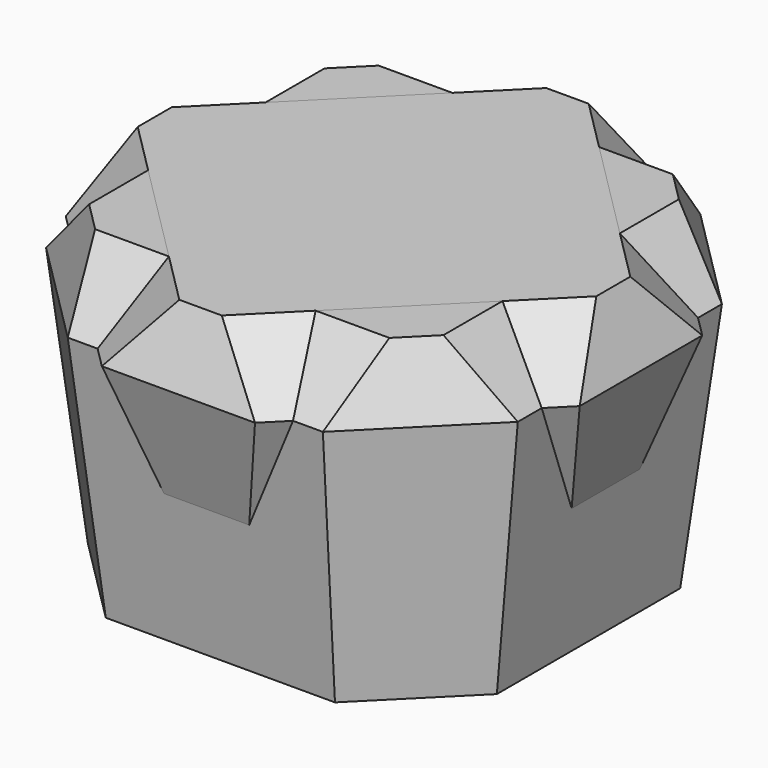
from build123d import *

# Parameters (mm, degrees)
F2_DEPTH      = 90
F2_TAPER      = -23
F2_FACE_W     = 166.4054669177
F2_FACE_H     = 166.4054669177
F4_DEPTH      = 23
F4_TAPER      = 42
F5_DEPTH      = 90
F5_TAPER      = -17
F5_DEPTH_BACK = 25
F5_TAPER_BACK = -23
F6_DEPTH      = 90
F6_TAPER      = 7
F8_ANGLE      = -45
F9_DEPTH      = 90
F9_TAPER      = -7.5


with BuildPart() as f2:
    # F0 (on Top) → F2 (new body)
    with BuildSketch(Plane.XY):
        Polygon((18.6396103068, -45), (45, -45), (45, -18.6396103068), align=None)
        Polygon((-45, -45), (-18.6396103068, -45), (-45, -18.6396103068), align=None)
        Polygon((18.6396103068, 45), (45, 18.6396103068), (45, 45), align=None)
        Polygon((-45, 45), (-45, 18.6396103068), (-18.6396103068, 45), align=None)
        Polygon((-18.6396103068, -45), (18.6396103068, -45), (45, -18.6396103068), (45, 18.6396103068), (18.6396103068, 45), (-18.6396103068, 45), (-45, 18.6396103068), (-45, -18.6396103068), align=None)
    extrude(amount=F2_DEPTH, taper=F2_TAPER)

    # F2_face (on face) → F4 (join)
    with BuildSketch(Plane.XY.offset(90)):
        Rectangle(F2_FACE_W, F2_FACE_H)
    extrude(amount=F4_DEPTH, taper=F4_TAPER)

    # F3 (on face) → F5 (cut, two sides)
    with BuildSketch(Plane.XY.offset(90)) as f5_sk:
        Polygon((83.2027334589, 83.2027334589), (45, 83.2027334589), (83.2027334589, 45), align=None)
        Polygon((83.2027334589, -45), (45, -83.2027334589), (83.2027334589, -83.2027334589), align=None)
        Polygon((-45, -83.2027334589), (-83.2027334589, -45), (-83.2027334589, -83.2027334589), align=None)
        Polygon((-83.2027334589, 83.2027334589), (-83.2027334589, 45), (-45, 83.2027334589), align=None)
    extrude(amount=-F5_DEPTH, taper=F5_TAPER, mode=Mode.SUBTRACT)
    extrude(f5_sk.sketch, amount=F5_DEPTH_BACK, taper=F5_TAPER_BACK, mode=Mode.SUBTRACT)


with BuildPart() as f6:
    # F3 (on face) → F6 (new body)
    with BuildSketch(Plane.XY.offset(90)):
        Polygon((-45, 83.2027334589), (-83.2027334589, 45), (-83.2027334589, -45), (-45, -83.2027334589), (45, -83.2027334589), (83.2027334589, -45), (83.2027334589, 45), (45, 83.2027334589), align=None)
    extrude(amount=-F6_DEPTH, taper=F6_TAPER)


with BuildPart() as f7_1:
    # F7: copy of F2
    add(f2.part)


with BuildPart() as f7_1_1:
    # F8: moved
    add(f7_1.part.rotate(Axis((0, 0, 36.3363064826), (0, 0, 1)), F8_ANGLE))


with BuildPart() as f9:
    # F0 (on Top) → F9 (new body)
    with BuildSketch(Plane.XY):
        Polygon((-45, -45), (-18.6396103068, -45), (-45, -18.6396103068), align=None)
        Polygon((-18.6396103068, -45), (18.6396103068, -45), (45, -18.6396103068), (45, 18.6396103068), (18.6396103068, 45), (-18.6396103068, 45), (-45, 18.6396103068), (-45, -18.6396103068), align=None)
        Polygon((-45, 45), (-45, 18.6396103068), (-18.6396103068, 45), align=None)
        Polygon((18.6396103068, 45), (45, 18.6396103068), (45, 45), align=None)
        Polygon((18.6396103068, -45), (45, -45), (45, -18.6396103068), align=None)
    extrude(amount=F9_DEPTH, taper=F9_TAPER)


solid = Compound([f2.part, f6.part, f7_1_1.part, f9.part])
